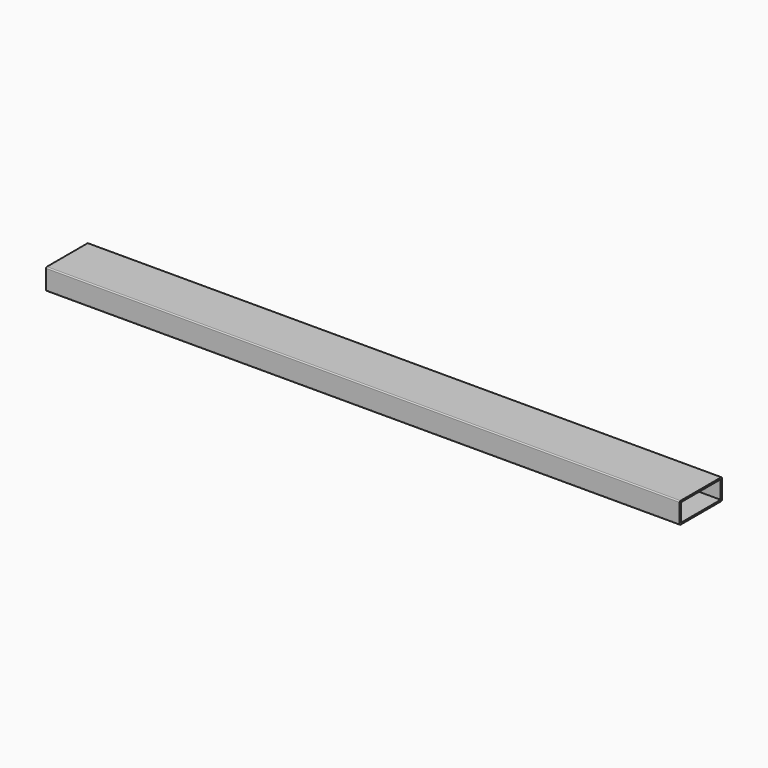
from build123d import *

# Parameters (mm, degrees)
F1_W     = 94
F1_H     = 34
F2_DEPTH = 600


with BuildPart() as f2:
    # F1 (on Right) → F2 (new body, symmetric)
    with BuildSketch(Plane.YZ):
        with BuildLine():
            ThreePointArc((-19.2521204937, -49.7380952381), (-18.6663340561, -51.1523088005), (-17.2521204937, -51.7380952381))
            Line((-17.2521204937, -51.7380952381), (78.7478795063, -51.7380952381))
            ThreePointArc((78.7478795063, -51.7380952381), (80.1620930687, -51.1523088005), (80.7478795063, -49.7380952381))
            Line((80.7478795063, -49.7380952381), (80.7478795063, -13.7380952381))
            ThreePointArc((80.7478795063, -13.7380952381), (80.1620930687, -12.3238816757), (78.7478795063, -11.7380952381))
            Line((78.7478795063, -11.7380952381), (-17.2521204937, -11.7380952381))
            ThreePointArc((-17.2521204937, -11.7380952381), (-18.6663340561, -12.3238816757), (-19.2521204937, -13.7380952381))
            Line((-19.2521204937, -13.7380952381), (-19.2521204937, -49.7380952381))
        make_face()
        with Locations((30.7478795063, -31.7380952381)):
            Rectangle(F1_W, F1_H, mode=Mode.SUBTRACT)
    extrude(amount=F2_DEPTH, both=True)


with BuildPart() as f3_1:
    # F3: copy of F2
    add(f2.part)


solid = f2.part
